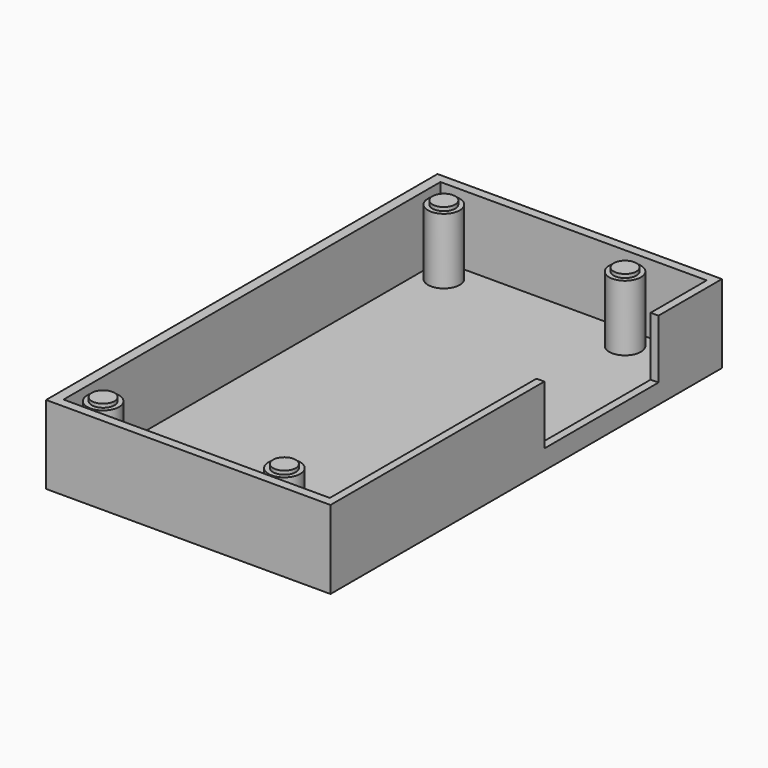
from build123d import *

# Parameters (mm, degrees)
BOX_W           = 62.78
BOX_H           = 108
BOX_DEPTH       = 17.3
SKETCH_W        = 58.78
SKETCH_H        = 104
POCKET_DEPTH    = 15.3
SKETCH001_W     = 2.23
SKETCH001_H     = 31.5
POCKET001_DEPTH = 13
SKETCH002_R     = 3.5
PAD_DEPTH       = 14.5
SKETCH003_R     = 2.5
PAD001_DEPTH    = 0.8


with BuildPart() as part:
    # Box → Box (new body)
    with BuildSketch(Plane.XY):
        with Locations((31.39, 54)):
            Rectangle(BOX_W, BOX_H)
    extrude(amount=BOX_DEPTH)

    # Sketch (on Face6 of Box) → Pocket (cut)
    with BuildSketch(Plane.XY.offset(17.3)):
        with Locations((31.651668, 53.986192)):
            Rectangle(SKETCH_W, SKETCH_H)
    extrude(amount=-POCKET_DEPTH, mode=Mode.SUBTRACT)

    # Sketch001 (on Face3 of Pocket) → Pocket001 (cut)
    with BuildSketch(Plane.XY.offset(17.3)):
        with Locations((61.972029, 74.75)):
            Rectangle(SKETCH001_W, SKETCH001_H)
    extrude(amount=-POCKET001_DEPTH, mode=Mode.SUBTRACT)

    # Sketch002 (on Face14 of Pocket001) → Pad (join)
    with BuildSketch(Plane.XY.offset(2)):
        with Locations((7, 101)):
            Circle(SKETCH002_R)
        with Locations((47, 101)):
            Circle(SKETCH002_R)
        with Locations((7, 7)):
            Circle(SKETCH002_R)
        with Locations((47, 7)):
            Circle(SKETCH002_R)
    extrude(amount=PAD_DEPTH)

    # Sketch003 (on Face20 of Pad) → Pad001 (join)
    with BuildSketch(Plane.XY.offset(16.5)):
        with Locations((7, 7)):
            Circle(SKETCH003_R)
        with Locations((47, 7)):
            Circle(SKETCH003_R)
        with Locations((7, 101)):
            Circle(SKETCH003_R)
        with Locations((47, 101)):
            Circle(SKETCH003_R)
    extrude(amount=PAD001_DEPTH)


solid = part.part
